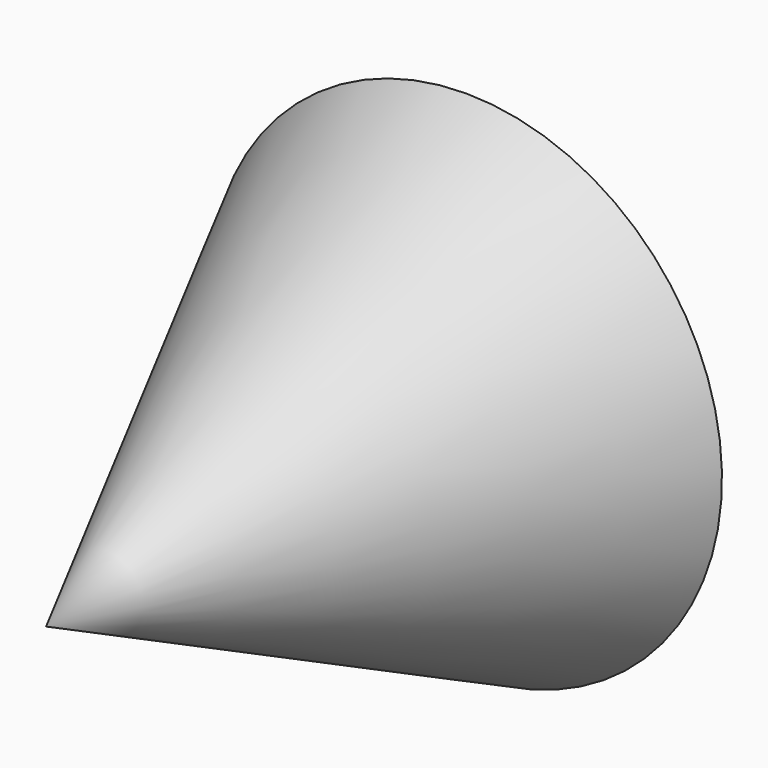
from build123d import *


with BuildPart() as f1:
    # F0 (on Right) → F1 (revolve)
    with BuildSketch(Plane.YZ):
        with BuildLine():
            Line((27.666287, 13.49375), (0, 0))
            Line((0, 0), (34.925, 0))
            Line((34.925, 0), (34.925, 3.4925))
            ThreePointArc((34.925, 3.4925), (29.997157, 7.550708), (27.666287, 13.49375))
        make_face()
    revolve(axis=Axis((0, 17.4625, 0), (0, 1, 0)))


solid = f1.part
